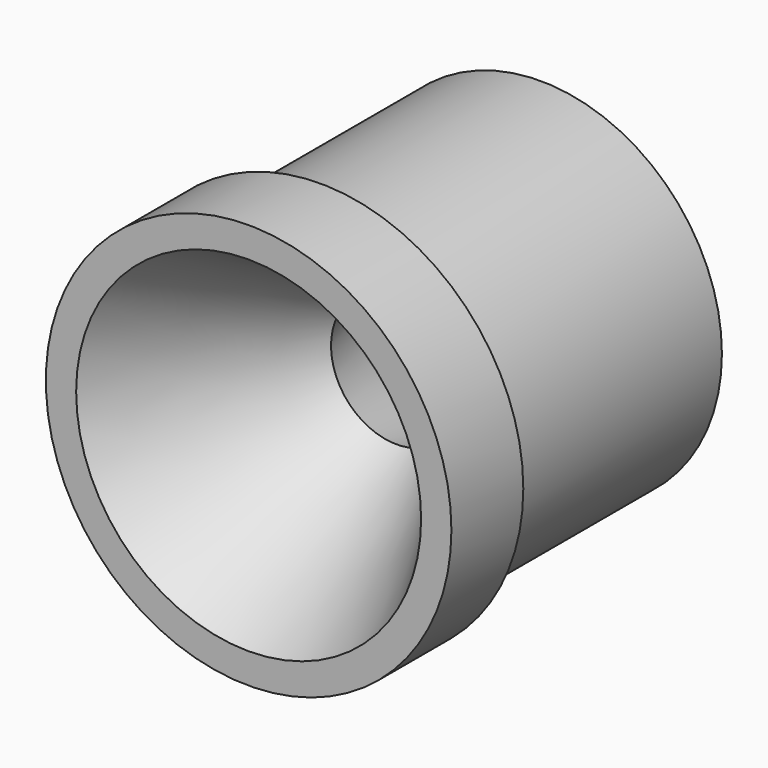
from build123d import *

# Parameters (mm, degrees)
F0_R     = 25.5016
F1_DEPTH = 11.303
F2_R     = 22.7965
F5_DEPTH = 34.6022074724
F4_W     = 22.6323335914
F4_H     = 8.255


with BuildPart() as f1:
    # F0 (on Front) → F1 (new body)
    with BuildSketch(Plane.XZ):
        Circle(F0_R)
    extrude(amount=-F1_DEPTH)

    # F2 (on face) → F5 (join, through all)
    with BuildSketch(Plane(origin=(0, 11.303, 0), x_dir=(-1, 0, 0), z_dir=(0, 1, 0))):
        Circle(F2_R)
    extrude(amount=F5_DEPTH)

    # F4 (on Right) → F6 (revolve, cut)
    with BuildSketch(Plane.YZ):
        Polygon((0, 21.6916), (0, 0), (23.272873881, 0), (23.272873881, 8.255), align=None)
        with Locations((34.5890406767, 4.1275)):
            Rectangle(F4_W, F4_H)
        Polygon((45.9052074724, 12.65428), (23.272873881, 8.255), (45.9052074724, 8.255), align=None)
    revolve(axis=Axis((0, 11.6364369405, 0), (0, 1, 0)), mode=Mode.SUBTRACT)


solid = f1.part
